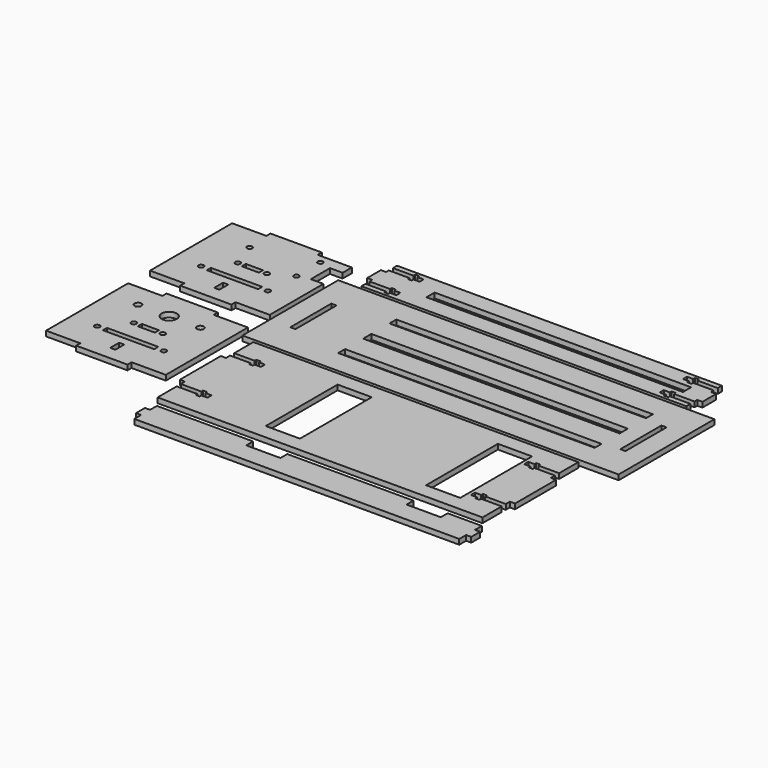
from build123d import *

# Parameters (mm, degrees)
SKETCH_W                      = 220
SKETCH_H                      = 70
SKETCH_W_2                    = 150
SKETCH_H_2                    = 6
PAD_DEPTH                     = 3
SKETCH001_W                   = 150
SKETCH001_H                   = 5
POCKET_DEPTH                  = 464.775837
SKETCH017_W                   = 3
SKETCH017_H                   = 30
POCKET004_DEPTH               = 3.001
SKETCH005_W                   = 190
SKETCH005_H                   = 26
SKETCH005_W_2                 = 150
SKETCH005_H_2                 = 6
PAD002_DEPTH                  = 3
SKETCH006_W                   = 10
SKETCH006_H                   = 3
PAD003_DEPTH                  = 3
SKETCH022_W                   = 18
SKETCH022_H                   = 3
POCKET006_DEPTH               = 398.480456
SKETCH022_MIRRORED003_2_W     = 18
SKETCH022_MIRRORED003_2_H     = 3
POCKET006_MIRRORED003_2_DEPTH = 398.480456
SKETCH023_W                   = 2.4
SKETCH023_H                   = 5.5
POCKET007_DEPTH               = 398.480456
SKETCH023_MIRRORED005_2_W     = 2.4
SKETCH023_MIRRORED005_2_H     = 5.5
POCKET007_MIRRORED005_2_DEPTH = 398.480456
SKETCH007_W                   = 70
SKETCH007_H                   = 60
PAD004_DEPTH                  = 3
SKETCH008_W                   = 30
SKETCH008_H                   = 3
PAD005_DEPTH                  = 3
SKETCH009_W                   = 30
SKETCH009_H                   = 3
PAD006_DEPTH                  = 3
SKETCH010_R                   = 1.5
SKETCH010_W                   = 10
SKETCH010_H                   = 3
SKETCH010_W_2                 = 30
POCKET001_DEPTH               = 3.001
SKETCH015_R                   = 1.5
SKETCH015_W                   = 7.4
SKETCH015_H                   = 14
POCKET003_DEPTH               = 3.001
SKETCH027_W                   = 3
SKETCH027_H                   = 6.5
POCKET011_DEPTH               = 3.001
SKETCH013_W                   = 70
SKETCH013_H                   = 60
PAD007_DEPTH                  = 3
SKETCH012_W                   = 30
SKETCH012_H                   = 3
PAD009_DEPTH                  = 3
SKETCH011_W                   = 30
SKETCH011_H                   = 3
PAD008_DEPTH                  = 3
SKETCH016_R                   = 4.4
HOLE_DEPTH                    = 25
SKETCH026_R                   = 1.5
SKETCH026_W                   = 10
SKETCH026_H                   = 3
SKETCH026_W_2                 = 30
POCKET010_DEPTH               = 3.001
SKETCH028_W                   = 3
SKETCH028_H                   = 6.5
POCKET012_DEPTH               = 3.001
SKETCH032_R                   = 2
POCKET014_DEPTH               = 3.001
SKETCH018_W                   = 190
SKETCH018_H                   = 70
PAD010_DEPTH                  = 3
SKETCH019_W                   = 30
SKETCH019_H                   = 3
PAD011_DEPTH                  = 3
SKETCH020_W                   = 30
SKETCH020_H                   = 3
PAD012_DEPTH                  = 3
SKETCH021_W                   = 20
SKETCH021_H                   = 52.5
POCKET005_DEPTH               = 3.001
SKETCH024_W                   = 18
SKETCH024_H                   = 3
POCKET008_DEPTH               = 419.294166
SKETCH024_MIRRORED007_2_W     = 18
SKETCH024_MIRRORED007_2_H     = 3
POCKET008_MIRRORED007_2_DEPTH = 419.294166
SKETCH025_W                   = 2.4
SKETCH025_H                   = 5.5
POCKET009_DEPTH               = 419.294166
SKETCH025_MIRRORED009_2_W     = 2.4
SKETCH025_MIRRORED009_2_H     = 5.5
POCKET009_MIRRORED009_2_DEPTH = 419.294166
SKETCH029_W                   = 190
SKETCH029_H                   = 16.5
PAD013_DEPTH                  = 3
SKETCH030_W                   = 3
SKETCH030_H                   = 6.5
PAD014_DEPTH                  = 3
SKETCH031_W                   = 20
SKETCH031_H                   = 5
POCKET013_DEPTH               = 3.001


with BuildPart() as top_panel:
    # Sketch → Pad (new body)
    with BuildSketch(Plane.XY):
        Rectangle(SKETCH_W, SKETCH_H)
        with Locations((10, 0)):
            Rectangle(SKETCH_W_2, SKETCH_H_2, mode=Mode.SUBTRACT)
    extrude(amount=PAD_DEPTH)

    # Sketch001 (on Face10 of Pad) → Pocket (cut, through all)
    with BuildSketch(Plane.XY.offset(3)):
        with Locations((10, 18.75)):
            Rectangle(SKETCH001_W, SKETCH001_H)
    pocket = extrude(amount=-POCKET_DEPTH, mode=Mode.SUBTRACT)

    # Mirrored: Pocket across Sketch001 H_Axis
    add(pocket.mirror(Plane(origin=(0, 0, 3), x_dir=(0, 0, 1), z_dir=(0, 1, 0))), mode=Mode.SUBTRACT)

    # Sketch017 (on Face5 of Mirrored) → Pocket004 (cut, through all)
    with BuildSketch(Plane.XY.offset(3)):
        with Locations((96.5, 0)):
            Rectangle(SKETCH017_W, SKETCH017_H)
        with Locations((-96.5, 0)):
            Rectangle(SKETCH017_W, SKETCH017_H)
    extrude(amount=-POCKET004_DEPTH, mode=Mode.SUBTRACT)


with BuildPart() as top_panel_1:
    # Body placement: moved
    add(top_panel.part.moved(Location((217, 64, 0))))


with BuildPart() as carriage_support:
    # Sketch005 → Pad002 (new body)
    with BuildSketch(Plane.XY):
        Rectangle(SKETCH005_W, SKETCH005_H)
        with Locations((10, 0)):
            Rectangle(SKETCH005_W_2, SKETCH005_H_2, mode=Mode.SUBTRACT)
    extrude(amount=PAD002_DEPTH)

    # Sketch006 (on Face2 of Pad002) → Pad003 (join)
    with BuildSketch(Plane.YZ.offset(95)):
        with Locations((0, 1.5)):
            Rectangle(SKETCH006_W, SKETCH006_H)
    pad003 = extrude(amount=PAD003_DEPTH)

    # Mirrored002: Pad003 across YZ
    add(pad003.mirror(Plane.YZ))

    # Sketch022 (on Face18 of Mirrored002) → Pocket006 (cut, through all)
    with BuildSketch(Plane.XY.offset(3)):
        with Locations((-86, 8.5)):
            Rectangle(SKETCH022_W, SKETCH022_H)
    pocket006 = extrude(amount=-POCKET006_DEPTH, mode=Mode.SUBTRACT)

    # Sketch022 Mirrored003 2 → Pocket006 Mirrored003 2 (cut, through all)
    with BuildSketch(Plane(origin=(0, 0, 3), x_dir=(-1, 0, 0), z_dir=(0, 0, -1))):
        with Locations((-86, 8.5)):
            Rectangle(SKETCH022_MIRRORED003_2_W, SKETCH022_MIRRORED003_2_H)
    pocket006_mirrored003_2 = extrude(amount=POCKET006_MIRRORED003_2_DEPTH, mode=Mode.SUBTRACT)

    # Mirrored004: Pocket006, Pocket006 Mirrored003 2 across Sketch022 H_Axis
    add(pocket006.mirror(Plane(origin=(0, 0, 3), x_dir=(0, 0, 1), z_dir=(0, 1, 0))), mode=Mode.SUBTRACT)
    add(pocket006_mirrored003_2.mirror(Plane(origin=(0, 0, 3), x_dir=(0, 0, 1), z_dir=(0, 1, 0))), mode=Mode.SUBTRACT)

    # Sketch023 (on Face5 of MultiTransform) → Pocket007 (cut, through all)
    with BuildSketch(Plane.XY.offset(3)):
        with Locations((-81.8, 8.5)):
            Rectangle(SKETCH023_W, SKETCH023_H)
    pocket007 = extrude(amount=-POCKET007_DEPTH, mode=Mode.SUBTRACT)

    # Sketch023 Mirrored005 2 → Pocket007 Mirrored005 2 (cut, through all)
    with BuildSketch(Plane(origin=(0, 0, 3), x_dir=(-1, 0, 0), z_dir=(0, 0, -1))):
        with Locations((-81.8, 8.5)):
            Rectangle(SKETCH023_MIRRORED005_2_W, SKETCH023_MIRRORED005_2_H)
    pocket007_mirrored005_2 = extrude(amount=POCKET007_MIRRORED005_2_DEPTH, mode=Mode.SUBTRACT)

    # Mirrored006: Pocket007, Pocket007 Mirrored005 2 across Sketch023 H_Axis
    add(pocket007.mirror(Plane(origin=(0, 0, 3), x_dir=(0, 0, 1), z_dir=(0, 1, 0))), mode=Mode.SUBTRACT)
    add(pocket007_mirrored005_2.mirror(Plane(origin=(0, 0, 3), x_dir=(0, 0, 1), z_dir=(0, 1, 0))), mode=Mode.SUBTRACT)


with BuildPart() as carriage_support_1:
    # Body002 placement: moved
    add(carriage_support.part.moved(Location((214, 114, 0))))


with BuildPart() as front_panel:
    # Sketch007 → Pad004 (new body)
    with BuildSketch(Plane.XY):
        with Locations((0, -16.25)):
            Rectangle(SKETCH007_W, SKETCH007_H)
    extrude(amount=PAD004_DEPTH)

    # Sketch008 (on Face3 of Pad004) → Pad005 (join)
    with BuildSketch(Plane.XZ.offset(46.25)):
        with Locations((0, 1.5)):
            Rectangle(SKETCH008_W, SKETCH008_H)
    extrude(amount=PAD005_DEPTH)

    # Sketch009 (on Face1 of Pad005) → Pad006 (join)
    with BuildSketch(Plane(origin=(0, 13.75, 0), x_dir=(-1, 0, 0), z_dir=(0, 1, 0))):
        with Locations((0, 1.5)):
            Rectangle(SKETCH009_W, SKETCH009_H)
    extrude(amount=PAD006_DEPTH)

    # Sketch010 (on Face14 of Pad006) → Pocket001 (cut, through all)
    with BuildSketch(Plane.XY.offset(3)):
        with Locations((8.5, -15.25)):
            Circle(SKETCH010_R)
        with Locations((-8.5, -15.25)):
            Circle(SKETCH010_R)
        with Locations((19.5, -28.25)):
            Circle(SKETCH010_R)
        with Locations((-19.5, -28.25)):
            Circle(SKETCH010_R)
        with Locations((0, -15.25)):
            Rectangle(SKETCH010_W, SKETCH010_H)
        with Locations((0, -28.25)):
            Rectangle(SKETCH010_W_2, SKETCH010_H)
    extrude(amount=-POCKET001_DEPTH, mode=Mode.SUBTRACT)

    # Sketch015 (on Face4 of Pocket001) → Pocket003 (cut, through all)
    with BuildSketch(Plane.XY.offset(3)):
        with Locations((20.6, 8.75)):
            Circle(SKETCH015_R)
        with Locations((20.6, -8.75)):
            Circle(SKETCH015_R)
        with Locations((-13.8, 0)):
            Circle(SKETCH015_R)
        with Locations((31.3, 0)):
            Rectangle(SKETCH015_W, SKETCH015_H)
    extrude(amount=-POCKET003_DEPTH, mode=Mode.SUBTRACT)

    # Sketch027 (on Face4 of Pocket003) → Pocket011 (cut, through all)
    with BuildSketch(Plane.XY.offset(3)):
        with Locations((0, -38)):
            Rectangle(SKETCH027_W, SKETCH027_H)
    extrude(amount=-POCKET011_DEPTH, mode=Mode.SUBTRACT)


with BuildPart() as front_panel_1:
    # Body003 placement: moved
    add(front_panel.part.moved(Location((69, 99, 0))))


with BuildPart() as back_panel:
    # Sketch013 → Pad007 (new body)
    with BuildSketch(Plane.XY):
        with Locations((0, -16.25)):
            Rectangle(SKETCH013_W, SKETCH013_H)
    extrude(amount=PAD007_DEPTH)

    # Sketch012 (on Face3 of Pad007) → Pad009 (join)
    with BuildSketch(Plane.XZ.offset(46.25)):
        with Locations((0, 1.5)):
            Rectangle(SKETCH012_W, SKETCH012_H)
    extrude(amount=PAD009_DEPTH)

    # Sketch011 (on Face1 of Pad009) → Pad008 (join)
    with BuildSketch(Plane(origin=(0, 13.75, 0), x_dir=(-1, 0, 0), z_dir=(0, 1, 0))):
        with Locations((0, 1.5)):
            Rectangle(SKETCH011_W, SKETCH011_H)
    extrude(amount=PAD008_DEPTH)

    # Sketch016 → Hole (cut)
    with BuildSketch(Plane.XY.offset(3)):
        Circle(SKETCH016_R)
    extrude(amount=-HOLE_DEPTH, mode=Mode.SUBTRACT)

    # Sketch026 (on Face14 of Pad006) → Pocket010 (cut, through all)
    with BuildSketch(Plane.XY.offset(3)):
        with Locations((8.5, -15.25)):
            Circle(SKETCH026_R)
        with Locations((-8.5, -15.25)):
            Circle(SKETCH026_R)
        with Locations((19.5, -28.25)):
            Circle(SKETCH026_R)
        with Locations((-19.5, -28.25)):
            Circle(SKETCH026_R)
        with Locations((0, -15.25)):
            Rectangle(SKETCH026_W, SKETCH026_H)
        with Locations((0, -28.25)):
            Rectangle(SKETCH026_W_2, SKETCH026_H)
    extrude(amount=-POCKET010_DEPTH, mode=Mode.SUBTRACT)

    # Sketch028 (on Face4 of Pocket003) → Pocket012 (cut, through all)
    with BuildSketch(Plane.XY.offset(3)):
        with Locations((0, -38)):
            Rectangle(SKETCH028_W, SKETCH028_H)
    extrude(amount=-POCKET012_DEPTH, mode=Mode.SUBTRACT)

    # Sketch032 (on Face4 of Pocket012) → Pocket014 (cut, through all)
    with BuildSketch(Plane.XY.offset(3)):
        with Locations((-18.25, 0)):
            Circle(SKETCH032_R)
        with Locations((18.25, 0)):
            Circle(SKETCH032_R)
    extrude(amount=-POCKET014_DEPTH, mode=Mode.SUBTRACT)


with BuildPart() as back_panel_1:
    # Body004 placement: moved
    add(back_panel.part.moved(Location((69, 23, 0))))


with BuildPart() as bottom_panel:
    # Sketch018 → Pad010 (new body)
    with BuildSketch(Plane.XY):
        Rectangle(SKETCH018_W, SKETCH018_H)
    extrude(amount=PAD010_DEPTH)

    # Sketch019 (on Face2 of Pad010) → Pad011 (join)
    with BuildSketch(Plane.YZ.offset(95)):
        with Locations((0, 1.5)):
            Rectangle(SKETCH019_W, SKETCH019_H)
    extrude(amount=PAD011_DEPTH)

    # Sketch020 (on Face2 of Pad011) → Pad012 (join)
    with BuildSketch(Plane(origin=(-95, 0, 0), x_dir=(0, -1, 0), z_dir=(-1, 0, 0))):
        with Locations((0, 1.5)):
            Rectangle(SKETCH020_W, SKETCH020_H)
    extrude(amount=PAD012_DEPTH)

    # Sketch021 (on Face14 of Pad012) → Pocket005 (cut, through all)
    with BuildSketch(Plane.XY.offset(3)):
        with Locations((-28.75, 0)):
            Rectangle(SKETCH021_W, SKETCH021_H)
        with Locations((65, 0)):
            Rectangle(SKETCH021_W, SKETCH021_H)
    extrude(amount=-POCKET005_DEPTH, mode=Mode.SUBTRACT)

    # Sketch024 (on Face5 of Pocket005) → Pocket008 (cut, through all)
    with BuildSketch(Plane.XY.offset(3)):
        with Locations((-86, 19.5)):
            Rectangle(SKETCH024_W, SKETCH024_H)
    pocket008 = extrude(amount=-POCKET008_DEPTH, mode=Mode.SUBTRACT)

    # Sketch024 Mirrored007 2 → Pocket008 Mirrored007 2 (cut, through all)
    with BuildSketch(Plane(origin=(0, 0, 3), x_dir=(-1, 0, 0), z_dir=(0, 0, -1))):
        with Locations((-86, 19.5)):
            Rectangle(SKETCH024_MIRRORED007_2_W, SKETCH024_MIRRORED007_2_H)
    pocket008_mirrored007_2 = extrude(amount=POCKET008_MIRRORED007_2_DEPTH, mode=Mode.SUBTRACT)

    # Mirrored008: Pocket008, Pocket008 Mirrored007 2 across Sketch024 H_Axis
    add(pocket008.mirror(Plane(origin=(0, 0, 3), x_dir=(0, 0, 1), z_dir=(0, 1, 0))), mode=Mode.SUBTRACT)
    add(pocket008_mirrored007_2.mirror(Plane(origin=(0, 0, 3), x_dir=(0, 0, 1), z_dir=(0, 1, 0))), mode=Mode.SUBTRACT)

    # Sketch025 (on Face5 of Pocket008) → Pocket009 (cut, through all)
    with BuildSketch(Plane.XY.offset(3)):
        with Locations((-81.8, 19.5)):
            Rectangle(SKETCH025_W, SKETCH025_H)
    pocket009 = extrude(amount=-POCKET009_DEPTH, mode=Mode.SUBTRACT)

    # Sketch025 Mirrored009 2 → Pocket009 Mirrored009 2 (cut, through all)
    with BuildSketch(Plane(origin=(0, 0, 3), x_dir=(-1, 0, 0), z_dir=(0, 0, -1))):
        with Locations((-81.8, 19.5)):
            Rectangle(SKETCH025_MIRRORED009_2_W, SKETCH025_MIRRORED009_2_H)
    pocket009_mirrored009_2 = extrude(amount=POCKET009_MIRRORED009_2_DEPTH, mode=Mode.SUBTRACT)

    # Mirrored010: Pocket009, Pocket009 Mirrored009 2 across Sketch025 H_Axis
    add(pocket009.mirror(Plane(origin=(0, 0, 3), x_dir=(0, 0, 1), z_dir=(0, 1, 0))), mode=Mode.SUBTRACT)
    add(pocket009_mirrored009_2.mirror(Plane(origin=(0, 0, 3), x_dir=(0, 0, 1), z_dir=(0, 1, 0))), mode=Mode.SUBTRACT)


with BuildPart() as bottom_panel_1:
    # Body005 placement: moved
    add(bottom_panel.part.moved(Location((210, -8, 0))))


with BuildPart() as support_panel:
    # Sketch029 → Pad013 (new body)
    with BuildSketch(Plane.XY):
        Rectangle(SKETCH029_W, SKETCH029_H)
    extrude(amount=PAD013_DEPTH)

    # Sketch030 (on Face6 of Pad013) → Pad014 (join)
    with BuildSketch(Plane.XY.offset(3)):
        with Locations((-96.5, 0)):
            Rectangle(SKETCH030_W, SKETCH030_H)
    pad014 = extrude(amount=-PAD014_DEPTH)

    # Mirrored011: Pad014 across Sketch030 V_Axis
    add(pad014.mirror(Plane(origin=(0, 0, 3), x_dir=(0, 0, 1), z_dir=(1, 0, 0))))

    # Sketch031 (on Face14 of Mirrored011) → Pocket013 (cut, through all)
    with BuildSketch(Plane.XY.offset(3)):
        with Locations((65, 5.75)):
            Rectangle(SKETCH031_W, SKETCH031_H)
        with Locations((-28.75, 5.75)):
            Rectangle(SKETCH031_W, SKETCH031_H)
    extrude(amount=-POCKET013_DEPTH, mode=Mode.SUBTRACT)


with BuildPart() as support_panel_1:
    # Body006 placement: moved
    add(support_panel.part.moved(Location((215, -58, 0))))


solid = Compound([top_panel_1.part, carriage_support_1.part, front_panel_1.part, back_panel_1.part, bottom_panel_1.part, support_panel_1.part])
